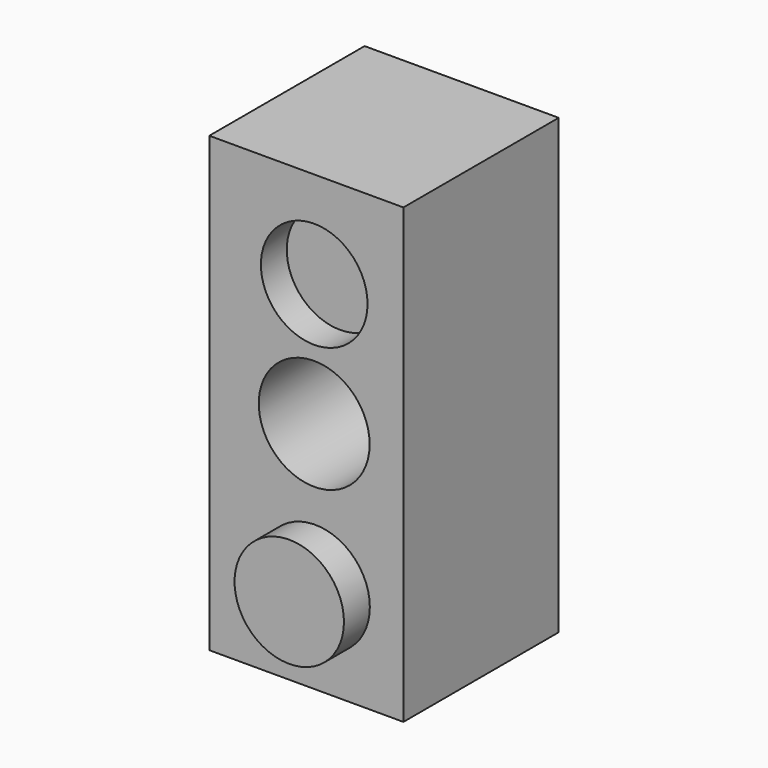
from build123d import *

# Parameters (mm, degrees)
F0_W     = 60
F0_H     = 60
F1_DEPTH = 140
F2_R     = 16.4842483895
F2_R_2   = 17.1367396553
F2_R_3   = 16.9091823749
F3_DEPTH = 15
F4_DEPTH = 199
F5_DEPTH = 25
F6_DEPTH = 5


with BuildPart() as f1:
    # F0 (on Top) → F1 (new body)
    with BuildSketch(Plane.XY):
        with Locations((30, 30)):
            Rectangle(F0_W, F0_H)
    extrude(amount=F1_DEPTH)

    # F2 (on face) → F3 (join)
    with BuildSketch(Plane.XZ):
        with Locations((32.427366823, 110.1229637861)):
            Circle(F2_R)
        with Locations((32.427366823, 72.1417963505)):
            Circle(F2_R_2)
        with Locations((32.7129401267, 27.8780274093)):
            Circle(F2_R_3)
    extrude(amount=F3_DEPTH)

    # F4 (cut): a face of the model
    f4_faces = [f1.faces().sort_by_distance(p)[0] for p in [
        (32.427366823, -15, 72.1417963505),
    ]]
    extrude(f4_faces, amount=-F4_DEPTH, mode=Mode.SUBTRACT)

    # F5 (cut): a face of the model
    f5_faces = [f1.faces().sort_by_distance(p)[0] for p in [
        (32.427366823, -15, 110.1229637861),
    ]]
    extrude(f5_faces, amount=-F5_DEPTH, mode=Mode.SUBTRACT)

    # F6 (cut): a face of the model
    f6_faces = [f1.faces().sort_by_distance(p)[0] for p in [
        (32.7129401267, -15, 27.8780274093),
    ]]
    extrude(f6_faces, amount=-F6_DEPTH, mode=Mode.SUBTRACT)


solid = f1.part
